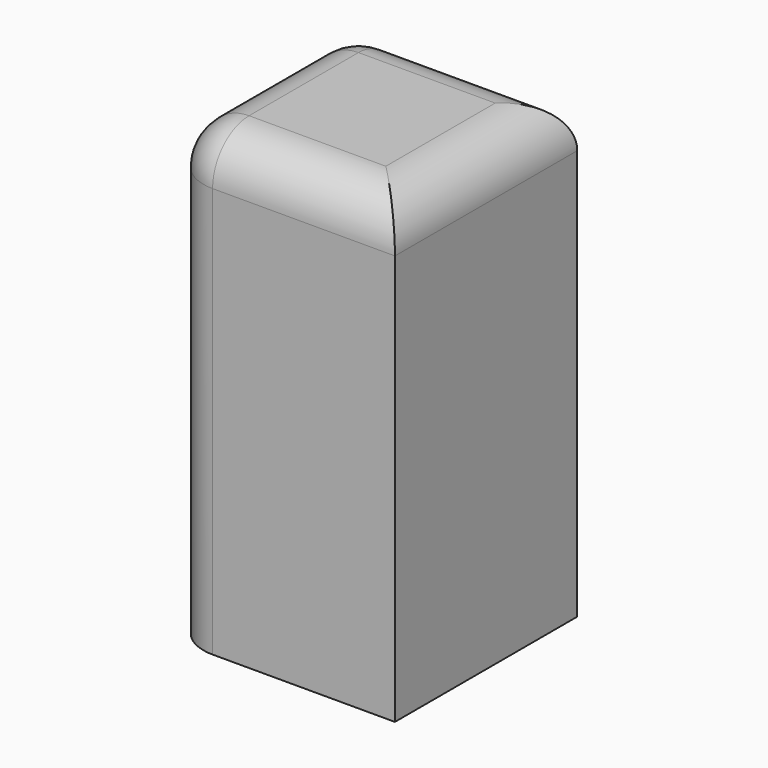
from build123d import *

# Parameters (mm, degrees)
F0_W     = 25.4
F0_H     = 25.4
F1_DEPTH = 50.8
F2_R     = 5.08
F3_R     = 5.08


with BuildPart() as f1:
    # F0 (on Top) → F1 (new body)
    with BuildSketch(Plane.XY):
        with Locations((-35.092446, -26.748407)):
            Rectangle(F0_W, F0_H)
    extrude(amount=F1_DEPTH)

    # F2
    f2_edges = [f1.edges().sort_by_distance(p)[0] for p in [
        (-47.792446, -26.748407, 50.8),
    ]]
    fillet(f2_edges, radius=F2_R)

    # F3
    f3_edges = [f1.edges().sort_by_distance(p)[0] for p in [
        (-32.552446, -39.448407, 50.8),
        (-22.392446, -26.748407, 50.8),
        (-32.552446, -14.048407, 50.8),
    ]]
    fillet(f3_edges, radius=F3_R)


solid = f1.part
